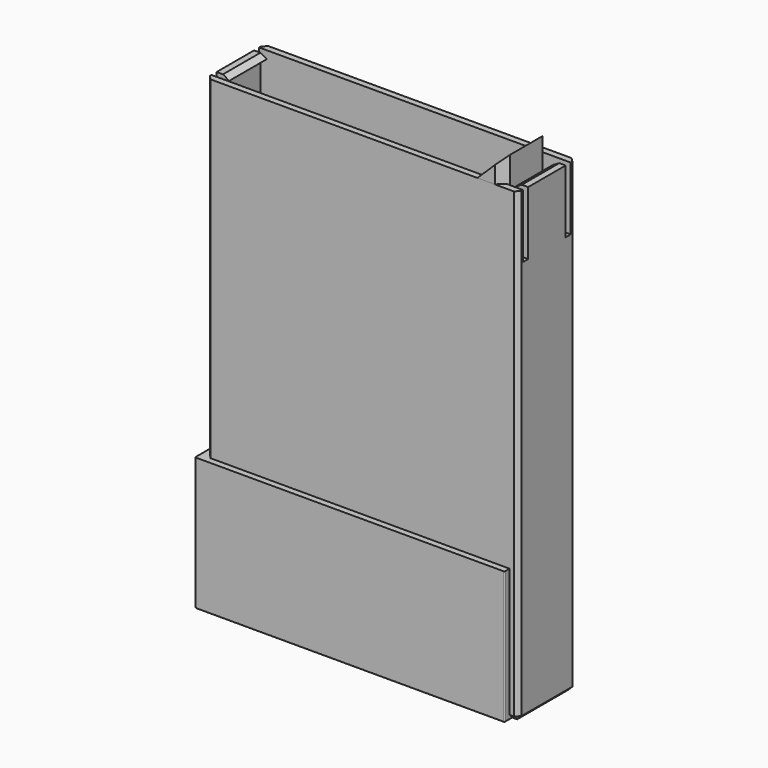
from build123d import *

# Parameters (mm, degrees)
SKETCH_W          = 70.3
SKETCH_H          = 13.6
SKETCH_R          = 1.8
SKETCH_R_2        = 2.3
SKETCH_R_3        = 2.8
SKETCH_R_4        = 3.3
SKETCH_R_5        = 3.8
SKETCH_R_6        = 4.3
SKETCH_R_7        = 4.8
SKETCH_R_8        = 5.3
PAD_DEPTH         = 115
POCKET_DEPTH      = 13.601
SKETCH002_W       = 70.3
SKETCH002_H       = 13.6
PAD001_DEPTH      = 1.5
SKETCH005_W       = 73.3
SKETCH005_H       = 16.6
SKETCH005_W_2     = 70.3
SKETCH005_H_2     = 13.6
PAD004_DEPTH      = 30
PAD004_DEPTH_BACK = 1.5
CHAMFER_SIZE      = 2
FILLET_R          = 0.25
POCKET001_DEPTH   = 15.101
SKETCH003_W       = 73.8
SKETCH003_H       = 17.1
SKETCH003_W_2     = 70.8
SKETCH003_H_2     = 14.1
PAD002_DEPTH      = 109
SKETCH004_W       = 73.8
SKETCH004_H       = 17.1
PAD003_DEPTH      = 1.5
CHAMFER001_SIZE   = 1
PAD005_DEPTH      = 14.1
SKETCH008_W       = 1.5
SKETCH008_H       = 15
POCKET002_DEPTH   = 73.801


with BuildPart() as box:
    # Sketch → Pad (new body)
    with BuildSketch(Plane.XY):
        with Locations((35.15, 6.8)):
            Rectangle(SKETCH_W, SKETCH_H)
        with Locations((3.3, 6.8)):
            Circle(SKETCH_R, mode=Mode.SUBTRACT)
        with Locations((8.9, 6.8)):
            Circle(SKETCH_R_2, mode=Mode.SUBTRACT)
        with Locations((15.5, 6.8)):
            Circle(SKETCH_R_3, mode=Mode.SUBTRACT)
        with Locations((23.1, 6.8)):
            Circle(SKETCH_R_4, mode=Mode.SUBTRACT)
        with Locations((31.7, 6.8)):
            Circle(SKETCH_R_5, mode=Mode.SUBTRACT)
        with Locations((41.3, 6.8)):
            Circle(SKETCH_R_6, mode=Mode.SUBTRACT)
        with Locations((51.9, 6.8)):
            Circle(SKETCH_R_7, mode=Mode.SUBTRACT)
        with Locations((63.5, 6.8)):
            Circle(SKETCH_R_8, mode=Mode.SUBTRACT)
    extrude(amount=PAD_DEPTH)

    # Sketch001 → Pocket (cut, through all)
    with BuildSketch(Plane.XZ):
        Polygon((-10, 46), (0, 46), (70.3, 115), (70.3, 125), (-10, 125), align=None)
    extrude(amount=-POCKET_DEPTH, mode=Mode.SUBTRACT)

    # Sketch002 → Pad001 (join)
    with BuildSketch(Plane.XY):
        with Locations((35.15, 6.8)):
            Rectangle(SKETCH002_W, SKETCH002_H)
    extrude(amount=-PAD001_DEPTH)

    # Sketch005 → Pad004 (join, two sides)
    with BuildSketch(Plane.XY) as pad004_sk:
        with Locations((35.15, 6.8)):
            Rectangle(SKETCH005_W, SKETCH005_H)
        with Locations((35.15, 6.8)):
            Rectangle(SKETCH005_W_2, SKETCH005_H_2, mode=Mode.SUBTRACT)
    extrude(amount=PAD004_DEPTH)
    extrude(pad004_sk.sketch, amount=-PAD004_DEPTH_BACK)

    # Chamfer
    chamfer_edges = [box.edges().sort_by_distance(p)[0] for p in [
        (70.3, 0, 72.5),
        (70.3, 13.6, 72.5),
        (0, 0, 38),
        (0, 13.6, 38),
    ]]
    chamfer(chamfer_edges, length=CHAMFER_SIZE)

    # Fillet
    fillet_edges = [box.edges().sort_by_distance(p)[0] for p in [
        (-1.5, -1.5, 14.25),
        (71.8, -1.5, 14.25),
        (71.8, 15.1, 14.25),
        (-1.5, 15.1, 14.25),
        (35.15, -1.5, -1.5),
        (-1.5, 6.8, -1.5),
        (35.15, 15.1, -1.5),
        (71.8, 6.8, -1.5),
    ]]
    fillet(fillet_edges, radius=FILLET_R)

    # Sketch006 (on Face10 of Fillet) → Pocket001 (cut, through all)
    with BuildSketch(Plane.XZ):
        Polygon((-0.25, 32.232051), (1.25, 31.366025), (-0.25, 30.5), align=None)
        Polygon((70.55, 32.232051), (69.05, 31.366025), (70.55, 30.5), align=None)
    extrude(amount=-POCKET001_DEPTH, mode=Mode.SUBTRACT)


with BuildPart() as cap:
    # Sketch003 → Pad002 (new body)
    with BuildSketch(Plane.XY):
        with Locations((36.9, 8.55)):
            Rectangle(SKETCH003_W, SKETCH003_H)
        with Locations((36.9, 8.55)):
            Rectangle(SKETCH003_W_2, SKETCH003_H_2, mode=Mode.SUBTRACT)
    extrude(amount=PAD002_DEPTH)

    # Sketch004 → Pad003 (join)
    with BuildSketch(Plane.XY):
        with Locations((36.9, 8.55)):
            Rectangle(SKETCH004_W, SKETCH004_H)
    extrude(amount=-PAD003_DEPTH)

    # Chamfer001
    chamfer001_edges = [cap.edges().sort_by_distance(p)[0] for p in [
        (73.8, 17.1, 53.75),
        (0, 17.1, 53.75),
        (36.9, 17.1, -1.5),
        (0, 8.55, -1.5),
        (0, 0, 53.75),
        (36.9, 0, -1.5),
        (73.8, 0, 53.75),
        (73.8, 8.55, -1.5),
    ]]
    chamfer(chamfer001_edges, length=CHAMFER001_SIZE)

    # Sketch007 (on Face21 of Chamfer001) → Pad005 (join)
    with BuildSketch(Plane(origin=(0, 1.5, 0), x_dir=(-1, 0, 0), z_dir=(0, 1, 0))):
        Polygon((-72.3, 109), (-72.3, 107.267949), (-70.8, 108.133975), align=None)
        Polygon((-1.5, 109), (-1.5, 107.267949), (-3, 108.133975), align=None)
    extrude(amount=PAD005_DEPTH)

    # Sketch008 (on Face11 of Pad005) → Pocket002 (cut, through all)
    with BuildSketch(Plane(origin=(0, 0, 0), x_dir=(0, -1, 0), z_dir=(-1, 0, 0))):
        with Locations((-14.85, 101.5)):
            Rectangle(SKETCH008_W, SKETCH008_H)
        with Locations((-2.25, 101.5)):
            Rectangle(SKETCH008_W, SKETCH008_H)
    extrude(amount=-POCKET002_DEPTH, mode=Mode.SUBTRACT)


solid = Compound([box.part, cap.part])
